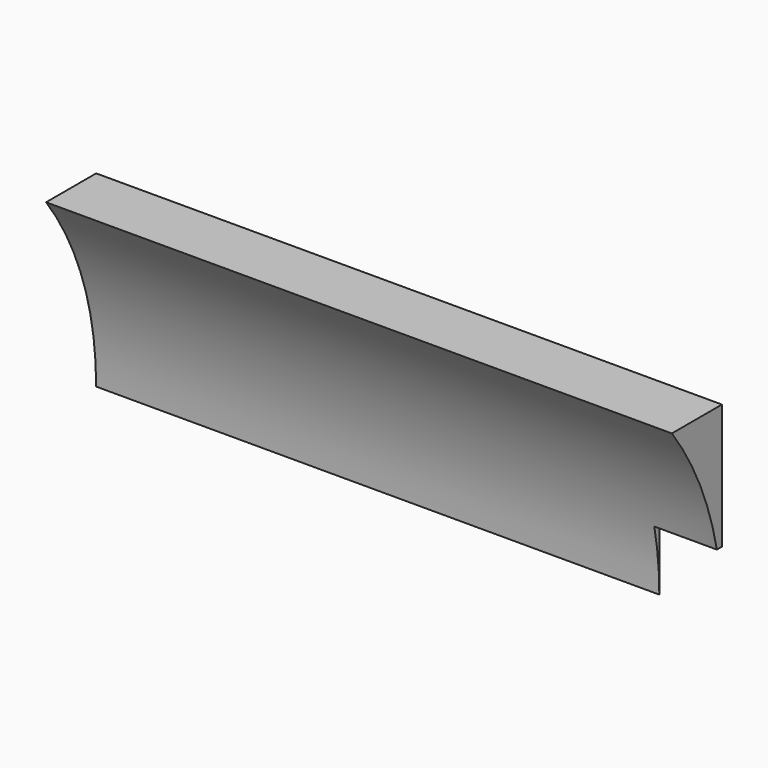
from build123d import *

# Parameters (mm, degrees)
BOX228_W          = 10
BOX228_H          = 10
BOX228_DEPTH      = 4
CYLINDER041_R     = 15
CYLINDER041_DEPTH = 32
BOX072_W          = 30
BOX072_H          = 6
BOX072_DEPTH      = 9


with BuildPart() as cube216:
    # Box228 → Box228 (new body)
    with BuildSketch(Plane(origin=(28, 40, -16), x_dir=(1, 0, 0), z_dir=(0, 0, 1))):
        with Locations((5, 5)):
            Rectangle(BOX228_W, BOX228_H)
    extrude(amount=BOX228_DEPTH)


with BuildPart() as cylinder128:
    # Cylinder041 → Cylinder041 (new body)
    with BuildSketch(Plane(origin=(0, 31, -15), x_dir=(0, 0, -1), z_dir=(1, 0, 0))):
        Circle(CYLINDER041_R)
    extrude(amount=CYLINDER041_DEPTH)


with BuildPart() as cut120:
    # Box072 → Box072 (new body)
    with BuildSketch(Plane(origin=(1, 40, -15), x_dir=(1, 0, 0), z_dir=(0, 0, 1))):
        with Locations((15, 3)):
            Rectangle(BOX072_W, BOX072_H)
    extrude(amount=BOX072_DEPTH)

    # Cut116: cut Cylinder128
    add(cylinder128.part, mode=Mode.SUBTRACT)

    # Cut120: cut Cube216
    add(cube216.part, mode=Mode.SUBTRACT)


solid = cut120.part
